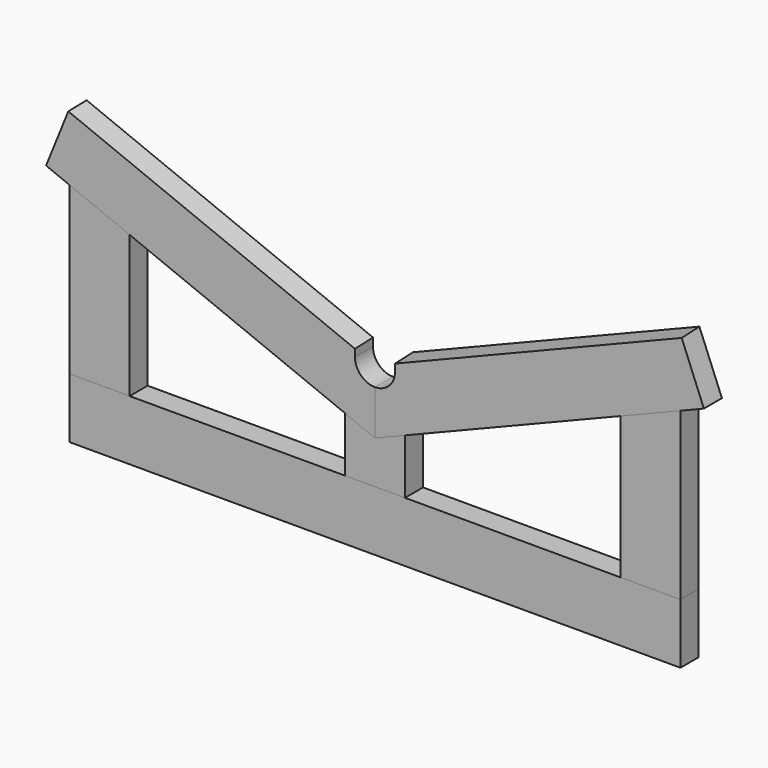
from build123d import *

# Parameters (mm, degrees)
F0_W      = 1220
F0_H      = 120
F1_DEPTH  = 45
F4_DEPTH  = 45
F6_DEPTH  = 1351.0763600801
F8_DEPTH  = 45
F11_DEPTH = 45


with BuildPart() as f1:
    # F0 (on Front) → F1 (new body)
    with BuildSketch(Plane.XZ):
        with Locations((610, 60)):
            Rectangle(F0_W, F0_H)
    extrude(amount=F1_DEPTH)


with BuildPart() as f4:
    # F3 (on Front) → F4 (new body)
    with BuildSketch(Plane.XZ):
        with BuildLine():
            Line((570, 335), (570, 351.1610490334))
            Line((570, 351.1610490334), (-1.9413440141, 582.2403516545))
            Line((-1.9413440141, 582.2403516545), (-46.894135224, 470.9782891065))
            Line((-46.894135224, 470.9782891065), (610, 205.5758308787))
            Line((610, 205.5758308787), (610, 295))
            ThreePointArc((610, 295), (581.7157287525, 306.7157287525), (570, 335))
        make_face()
    extrude(amount=F4_DEPTH)

    # F5 (on face) → F6 (cut, through all)
    with BuildSketch(Plane(origin=(-203.8979819627, 0, 82.3801321078), x_dir=(0, -1, 0), z_dir=(-0.9271838546, 0, 0.3746065934))):
        Polygon((45, 537.5451786365), (45, 539.1166132636), (0, 539.1166132636), align=None)
    extrude(amount=-F6_DEPTH, mode=Mode.SUBTRACT)


with BuildPart() as f8:
    # F7 (on Front) → F8 (new body)
    with BuildSketch(Plane.XZ):
        Polygon((0, 452.0318286381), (0, 120), (120, 120), (120, 403.5486815379), align=None)
    extrude(amount=F8_DEPTH)


with BuildPart() as f9_1:
    # F9: instance of F4
    add(f4.part.mirror(Plane.YZ.offset(610)))


with BuildPart() as f9_2:
    # F9: instance of F8
    add(f8.part.mirror(Plane.YZ.offset(610)))


with BuildPart() as f11:
    # F10 (on Front) → F11 (new body)
    with BuildSketch(Plane.XZ):
        Polygon((550, 120), (670, 120), (670, 229.8174044288), (610, 205.5758308787), (550, 229.8174044288), align=None)
    extrude(amount=F11_DEPTH)


solid = Compound([f1.part, f4.part, f8.part, f9_1.part, f9_2.part, f11.part])
